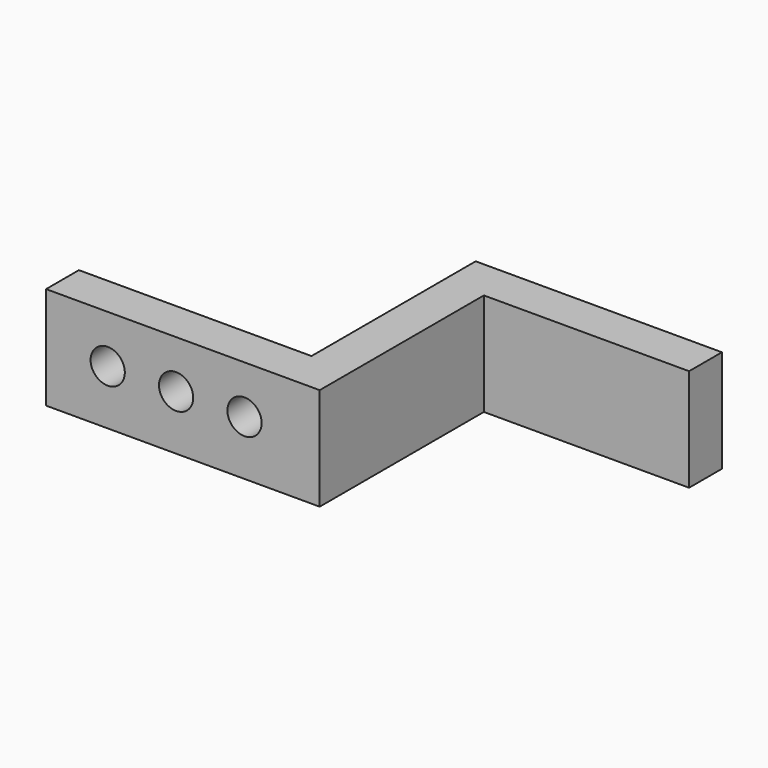
from build123d import *

# Parameters (mm, degrees)
F1_DEPTH = 15
F3_D     = 5


with BuildPart() as f1:
    # F0 (on Top) → F1 (new body)
    with BuildSketch(Plane.XY):
        Polygon((14.214137, -20.07169), (-19.785863, -20.07169), (-19.785863, -26.07169), (20.214137, -26.07169), (20.214137, 3.92831), (50.214137, 3.92831), (50.214137, 9.92831), (14.214137, 9.92831), align=None)
    extrude(amount=F1_DEPTH)

    # F3 (through all)
    with Locations(Plane.XZ.offset(26.07169)):
        with Locations((9.221217, 8), (-0.778783, 8), (-10.778783, 8)):
            Hole(F3_D / 2)


solid = f1.part
